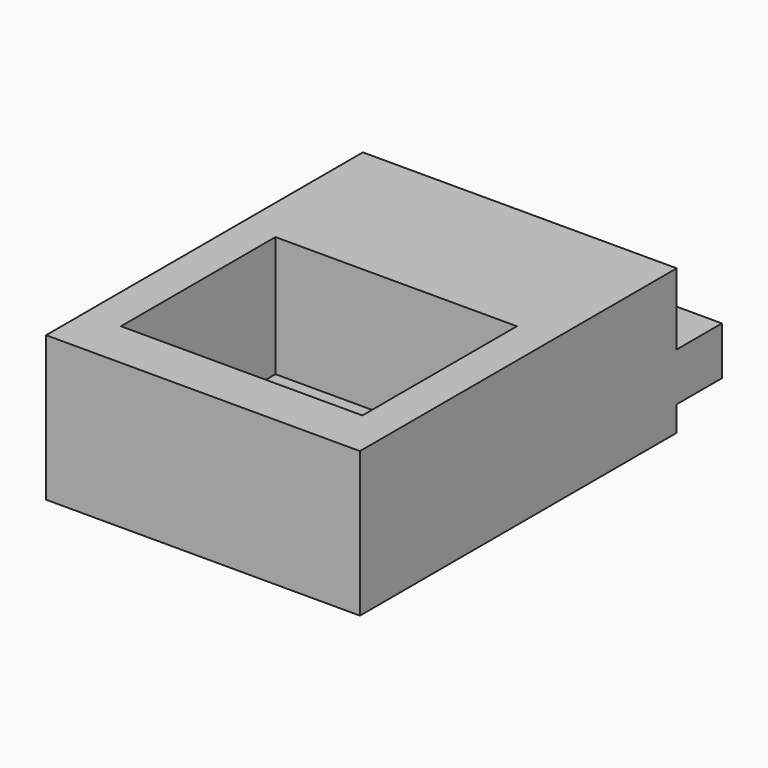
from build123d import *

# Parameters (mm, degrees)
F0_W     = 65
F0_H     = 93.7
F1_DEPTH = 30
F2_W     = 65
F2_H     = 14.8
F3_DEPTH = 11.7
F4_W     = 65
F4_H     = 5.2
F5_DEPTH = 11.7
F6_W     = 50
F6_H     = 40
F7_DEPTH = 25


with BuildPart() as f1:
    # F0 (on Top) → F1 (new body)
    with BuildSketch(Plane.XY):
        Rectangle(F0_W, F0_H)
    extrude(amount=F1_DEPTH)

    # F2 (on face) → F3 (cut)
    with BuildSketch(Plane(origin=(0, 46.85, 0), x_dir=(-1, 0, 0), z_dir=(0, 1, 0))):
        with Locations((0, 22.6)):
            Rectangle(F2_W, F2_H)
    extrude(amount=-F3_DEPTH, mode=Mode.SUBTRACT)

    # F4 (on face) → F5 (cut)
    with BuildSketch(Plane(origin=(0, 46.85, 0), x_dir=(-1, 0, 0), z_dir=(0, 1, 0))):
        with Locations((0, 2.6)):
            Rectangle(F4_W, F4_H)
    extrude(amount=-F5_DEPTH, mode=Mode.SUBTRACT)

    # F6 (on face) → F7 (cut)
    with BuildSketch(Plane.XY.offset(30)):
        with Locations((0, -16.85)):
            Rectangle(F6_W, F6_H)
    extrude(amount=-F7_DEPTH, mode=Mode.SUBTRACT)


solid = f1.part
